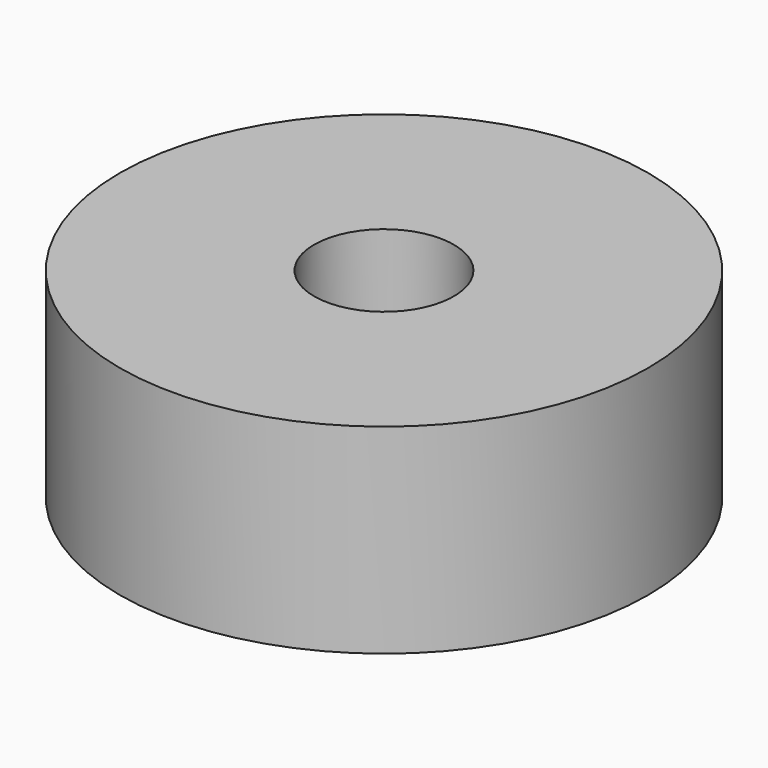
from build123d import *

# Parameters (mm, degrees)
F0_R     = 27.75
F1_DEPTH = 21
F3_D     = 14.68374
F3_DEPTH = 11
F3_TIP   = 4.411440553
F5_D     = 9
F5_DEPTH = 13.75
F5_TIP   = 2.7038727856


with BuildPart() as f1:
    # F0 (on Top) → F1 (new body)
    with BuildSketch(Plane.XY):
        Circle(F0_R)
    extrude(amount=F1_DEPTH)

    # F3
    with Locations(Plane.XY.offset(21)):
        with Locations((0, 0)):
            Hole(F3_D / 2, depth=F3_DEPTH)
            with Locations((0, 0, -(F3_DEPTH + F3_TIP / 2))):  # 118° drill point
                Cone(0, F3_D / 2, F3_TIP, mode=Mode.SUBTRACT)

    # F5
    with Locations(Plane(origin=(0, 0, 0), x_dir=(1, 0, 0), z_dir=(0, 0, -1))):
        with Locations((0, 0)):
            Hole(F5_D / 2, depth=F5_DEPTH)
            with Locations((0, 0, -(F5_DEPTH + F5_TIP / 2))):  # 118° drill point
                Cone(0, F5_D / 2, F5_TIP, mode=Mode.SUBTRACT)


solid = f1.part
